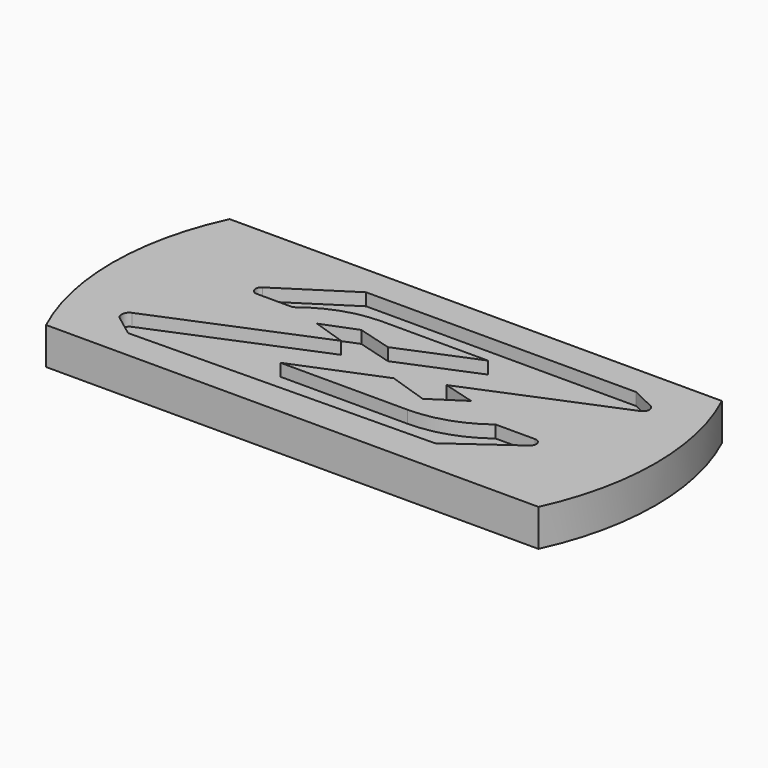
from build123d import *

# Parameters (mm, degrees)
F1_DEPTH = 3
F2_DEPTH = 2


with BuildPart() as f1:
    # F0 (on Top) → F1 (new body)
    with BuildSketch(Plane.XY):
        with BuildLine():
            Line((19.942677, 9.289222), (-19.942677, 9.289222))
            ThreePointArc((-19.942677, 9.289222), (-22, 0), (-19.942677, -9.289222))
            Line((-19.942677, -9.289222), (19.942677, -9.289222))
            ThreePointArc((19.942677, -9.289222), (22, 0), (19.942677, 9.289222))
        make_face()
        with BuildLine():
            Line((-1.156434, 1.846145), (4.930152, 4.361934))
            Line((4.930152, 4.361934), (-3.621134, 4.361934))
            ThreePointArc((-3.621134, 4.361934), (-6.620017, 3.847533), (-9.276045, 2.363141))
            Line((-9.276045, 2.363141), (-12.199058, 2.363141))
            ThreePointArc((-12.199058, 2.363141), (-12.678674, 2.721831), (-12.470157, 3.283267))
            Line((-12.470157, 3.283267), (-6.936188, 6.854217))
            Line((-6.936188, 6.854217), (14.93775, 6.854217))
            Line((14.93775, 6.854217), (16.817631, 5.952944))
            ThreePointArc((16.817631, 5.952944), (17.116453, 5.463505), (16.791204, 4.991214))
            Line((16.791204, 4.991214), (4.982263, 0.107877))
            Line((4.982263, 0.107877), (7.555203, -0.620691))
            Line((7.555203, -0.620691), (4.977233, -2.306286))
            Line((4.977233, -2.306286), (1.789908, -1.248365))
            Line((1.789908, -1.248365), (-5.120229, -4.070473))
            Line((-5.120229, -4.070473), (5.159305, -4.070473))
            ThreePointArc((5.159305, -4.070473), (8.125999, -3.583154), (10.78091, -2.172411))
            Line((10.78091, -2.172411), (13.969747, -2.172411))
            ThreePointArc((13.969747, -2.172411), (14.445776, -2.519453), (14.260995, -3.078827))
            Line((14.260995, -3.078827), (9.389527, -6.569852))
            Line((9.389527, -6.569852), (-15.200337, -6.916886))
            Line((-15.200337, -6.916886), (-16.875832, -5.655955))
            ThreePointArc((-16.875832, -5.655955), (-17.116481, -5.086264), (-16.741107, -4.594783))
            Line((-16.741107, -4.594783), (-4.010158, 0.676763))
            Line((-4.010158, 0.676763), (-6.673207, 1.560668))
            Line((-6.673207, 1.560668), (-3.946026, 2.636062))
            Line((-3.946026, 2.636062), (-1.156434, 1.846145))
        make_face(mode=Mode.SUBTRACT)
    extrude(amount=F1_DEPTH)

    # F0 (on Top) → F2 (join)
    with BuildSketch(Plane.XY):
        with BuildLine():
            Line((-3.621134, 4.361934), (4.930152, 4.361934))
            Line((4.930152, 4.361934), (-1.156434, 1.846145))
            Line((-1.156434, 1.846145), (-3.946026, 2.636062))
            Line((-3.946026, 2.636062), (-6.673207, 1.560668))
            Line((-6.673207, 1.560668), (-4.010158, 0.676763))
            Line((-4.010158, 0.676763), (-16.741107, -4.594783))
            ThreePointArc((-16.741107, -4.594783), (-17.116481, -5.086264), (-16.875832, -5.655955))
            Line((-16.875832, -5.655955), (-15.200337, -6.916886))
            Line((-15.200337, -6.916886), (9.389527, -6.569852))
            Line((9.389527, -6.569852), (14.260995, -3.078827))
            ThreePointArc((14.260995, -3.078827), (14.445776, -2.519453), (13.969747, -2.172411))
            Line((13.969747, -2.172411), (10.78091, -2.172411))
            ThreePointArc((10.78091, -2.172411), (8.125999, -3.583154), (5.159305, -4.070473))
            Line((5.159305, -4.070473), (-5.120229, -4.070473))
            Line((-5.120229, -4.070473), (1.789908, -1.248365))
            Line((1.789908, -1.248365), (4.977233, -2.306286))
            Line((4.977233, -2.306286), (7.555203, -0.620691))
            Line((7.555203, -0.620691), (4.982263, 0.107877))
            Line((4.982263, 0.107877), (16.791204, 4.991214))
            ThreePointArc((16.791204, 4.991214), (17.116453, 5.463505), (16.817631, 5.952944))
            Line((16.817631, 5.952944), (14.93775, 6.854217))
            Line((14.93775, 6.854217), (-6.936188, 6.854217))
            Line((-6.936188, 6.854217), (-12.470157, 3.283267))
            ThreePointArc((-12.470157, 3.283267), (-12.678674, 2.721831), (-12.199058, 2.363141))
            Line((-12.199058, 2.363141), (-9.276045, 2.363141))
            ThreePointArc((-9.276045, 2.363141), (-6.620017, 3.847533), (-3.621134, 4.361934))
        make_face()
    extrude(amount=F2_DEPTH)


solid = f1.part
